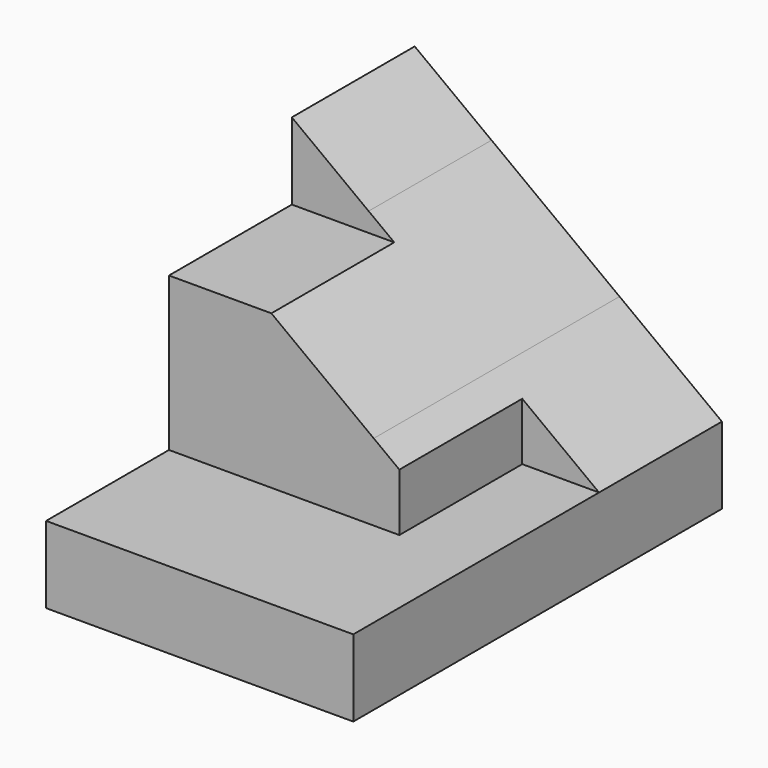
from build123d import *

# Parameters (mm, degrees)
F1_DEPTH = 19.05
F3_DEPTH = 25.401
F5_DEPTH = 12.7


with BuildPart() as f1:
    # F0 (on Front) → F1 (new body, symmetric)
    with BuildSketch(Plane.XZ):
        Polygon((0, 6.35), (0, 0), (25.4, 0), (25.4, 6.35), (16.9333333333, 6.35), align=None)
        Polygon((0, 20.6375), (0, 6.35), (16.9333333333, 6.35), (16.9333333333, 12.7), (6.35, 20.6375), align=None)
        Polygon((16.9333333333, 6.35), (25.4, 6.35), (16.9333333333, 12.7), align=None)
        Polygon((0, 25.4), (0, 20.6375), (6.35, 20.6375), align=None)
    extrude(amount=F1_DEPTH, both=True)

    # F2 (on face) → F3 (cut, through all)
    with BuildSketch(Plane(origin=(0, 0, 0), x_dir=(0, -1, 0), z_dir=(-1, 0, 0))):
        Polygon((6.35, 6.35), (19.05, 6.35), (19.05, 25.4), (-6.35, 25.4), (-6.35, 19.05), (6.35, 19.05), align=None)
    extrude(amount=-F3_DEPTH, mode=Mode.SUBTRACT)

    # F4 (on face) → F5 (cut)
    with BuildSketch(Plane.XZ.offset(6.35)):
        Polygon((19.05, 6.35), (25.4, 6.35), (19.05, 11.1125), align=None)
    extrude(amount=-F5_DEPTH, mode=Mode.SUBTRACT)


solid = f1.part
